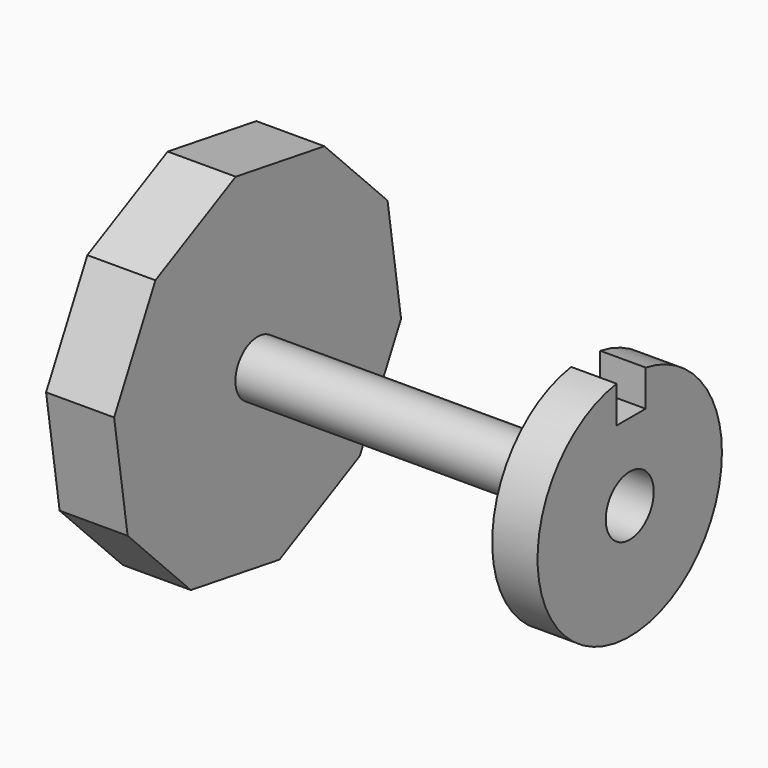
from build123d import *

# Parameters (mm, degrees)
F1_DEPTH = 15
F2_R     = 5.488031
F3_DEPTH = 25.4
F2_R_2   = 6.111547
F4_DEPTH = 72.027862
F5_R     = 8.188497
F5_R_2   = 6.600496
F6_DEPTH = 10
F8_R     = 6.610273
F9_DEPTH = 10


with BuildPart() as f1:
    # F0 (on Right) → F1 (new body)
    with BuildSketch(Plane.YZ):
        Polygon((28.153695, -28.49965), (39.528491, -6.508374), (35.804748, 17.968879), (18.404807, 35.582631), (-6.025144, 39.605027), (-28.153695, 28.49965), (-39.528491, 6.508374), (-35.804748, -17.968879), (-18.404807, -35.582631), (6.025144, -39.605027), align=None)
    extrude(amount=F1_DEPTH)

    # F2 (on face) → F3 (cut)
    with BuildSketch(Plane.YZ.offset(15)):
        Circle(F2_R)
    extrude(amount=-F3_DEPTH, mode=Mode.SUBTRACT)

    # F2 (on face) → F4 (join)
    with BuildSketch(Plane.YZ.offset(15)):
        Circle(F2_R_2)
        Circle(F2_R, mode=Mode.SUBTRACT)
    extrude(amount=F4_DEPTH)


with BuildPart() as f6:
    # F5 (on face) → F6 (new body)
    with BuildSketch(Plane.YZ.offset(87.027862)):
        Circle(F5_R)
        Circle(F5_R_2, mode=Mode.SUBTRACT)
    extrude(amount=F6_DEPTH)


with BuildPart() as f9:
    # F8 (on face) → F9 (new body)
    with BuildSketch(Plane.YZ.offset(87.027862)):
        with BuildLine():
            ThreePointArc((-3.627016, 25.139705), (-16.628797, -19.200081), (25.4, 0))
            ThreePointArc((25.4, 0), (19.445228, 16.341453), (4.372984, 25.020732))
            Line((4.372984, 25.020732), (4.372984, 17.020732))
            Line((4.372984, 17.020732), (-3.627016, 17.020732))
            Line((-3.627016, 17.020732), (-3.627016, 25.139705))
        make_face()
        Circle(F8_R, mode=Mode.SUBTRACT)
    extrude(amount=F9_DEPTH)


solid = Compound([f1.part, f9.part])
